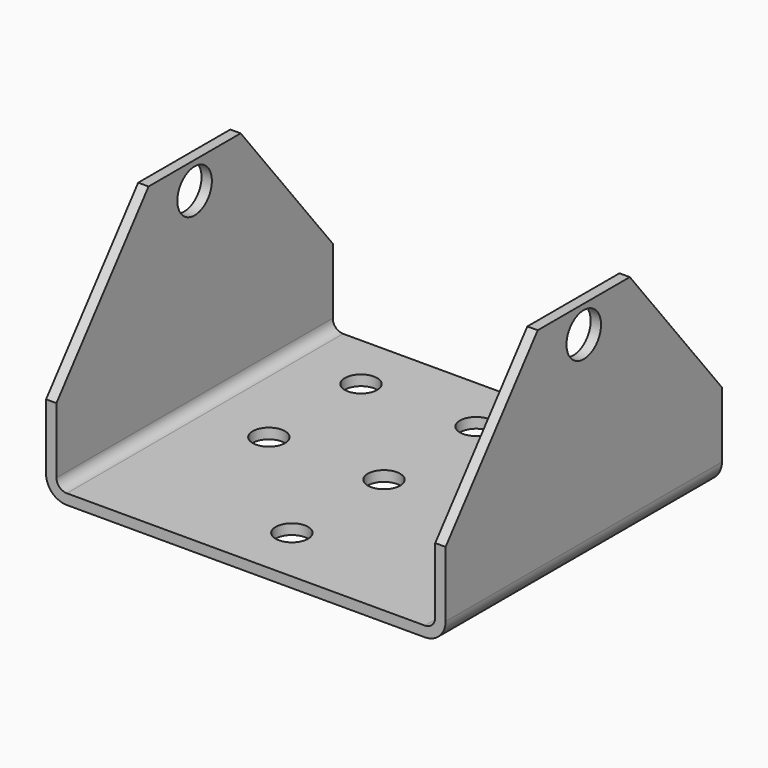
from build123d import *

# Parameters (mm, degrees)
F1_DEPTH = 38.1
F2_R     = 4.7625
F3_DEPTH = 88.139
F5_D     = 7.1374


with BuildPart() as f1:
    # F0 (on Front) → F1 (new body, symmetric)
    with BuildSketch(Plane.XZ):
        with BuildLine():
            Line((44.069, 4.572), (44.069, 50.8))
            Line((44.069, 50.8), (41.783, 50.8))
            Line((41.783, 50.8), (41.783, 4.572))
            ThreePointArc((41.783, 4.572), (41.113446, 2.955554), (39.497, 2.286))
            Line((39.497, 2.286), (-39.497, 2.286))
            ThreePointArc((-39.497, 2.286), (-41.113446, 2.955554), (-41.783, 4.572))
            Line((-41.783, 4.572), (-41.783, 50.8))
            Line((-41.783, 50.8), (-44.069, 50.8))
            Line((-44.069, 50.8), (-44.069, 4.572))
            ThreePointArc((-44.069, 4.572), (-42.729892, 1.339108), (-39.497, 0))
            Line((-39.497, 0), (39.497, 0))
            ThreePointArc((39.497, 0), (42.729892, 1.339108), (44.069, 4.572))
        make_face()
    extrude(amount=F1_DEPTH, both=True)

    # F2 (on face) → F3 (cut, through all)
    with BuildSketch(Plane(origin=(-44.069, 0, 0), x_dir=(0, -1, 0), z_dir=(-1, 0, 0))):
        Polygon((12.7, 50.8), (38.1, 19.05), (38.1, 50.8), align=None)
        with Locations((0, 44.789256)):
            Circle(F2_R)
        Polygon((-38.1, 19.05), (-12.7, 50.8), (-38.1, 50.8), align=None)
    extrude(amount=-F3_DEPTH, mode=Mode.SUBTRACT)

    # F5 (through all)
    with Locations(Plane(origin=(0, 0, 0), x_dir=(1, 0, 0), z_dir=(0, 0, -1))):
        with Locations((0, 25.4), (25.4, 0), (0, 0), (-25.4, 0), (-25.4, -25.4), (0, -25.4), (25.4, -25.4)):
            Hole(F5_D / 2)


solid = f1.part
